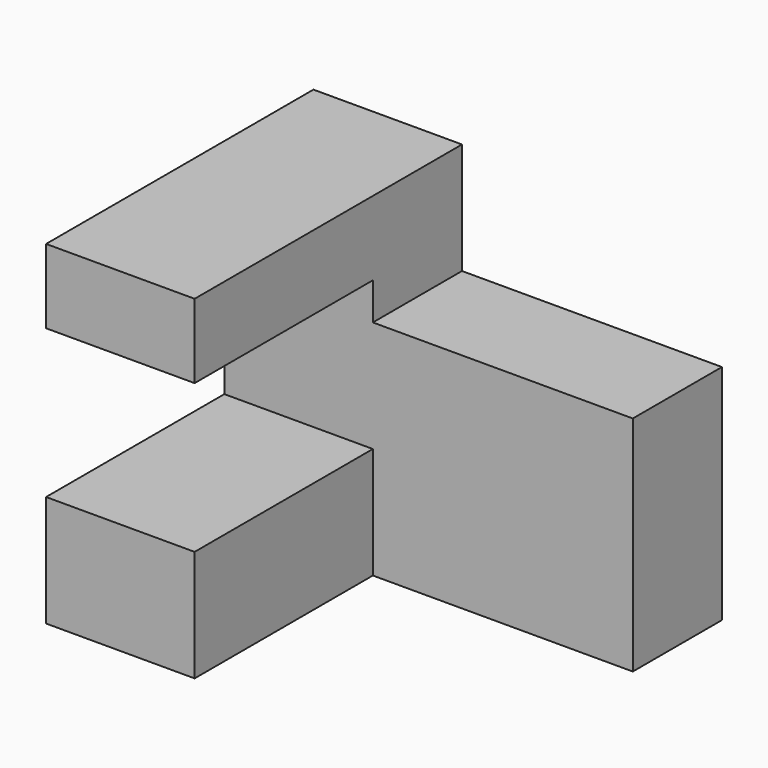
from build123d import *

# Parameters (mm, degrees)
F0_W     = 20
F0_H     = 15
F0_H_2   = 10
F1_DEPTH = 45
F2_DEPTH = 30


with BuildPart() as f1:
    # F0 (on Front) → F1 (new body)
    with BuildSketch(Plane.XZ):
        with Locations((10, 7.5)):
            Rectangle(F0_W, F0_H)
        Polygon((0, 35), (0, 15), (20, 15), (20, 0), (55, 0), (55, 30), (20, 30), (20, 35), align=None)
        with Locations((10, 40)):
            Rectangle(F0_W, F0_H_2)
    extrude(amount=-F1_DEPTH)

    # F0 (on Front) → F2 (cut)
    with BuildSketch(Plane.XZ):
        Polygon((0, 35), (0, 15), (20, 15), (20, 0), (55, 0), (55, 30), (20, 30), (20, 35), align=None)
    extrude(amount=-F2_DEPTH, mode=Mode.SUBTRACT)


solid = f1.part
